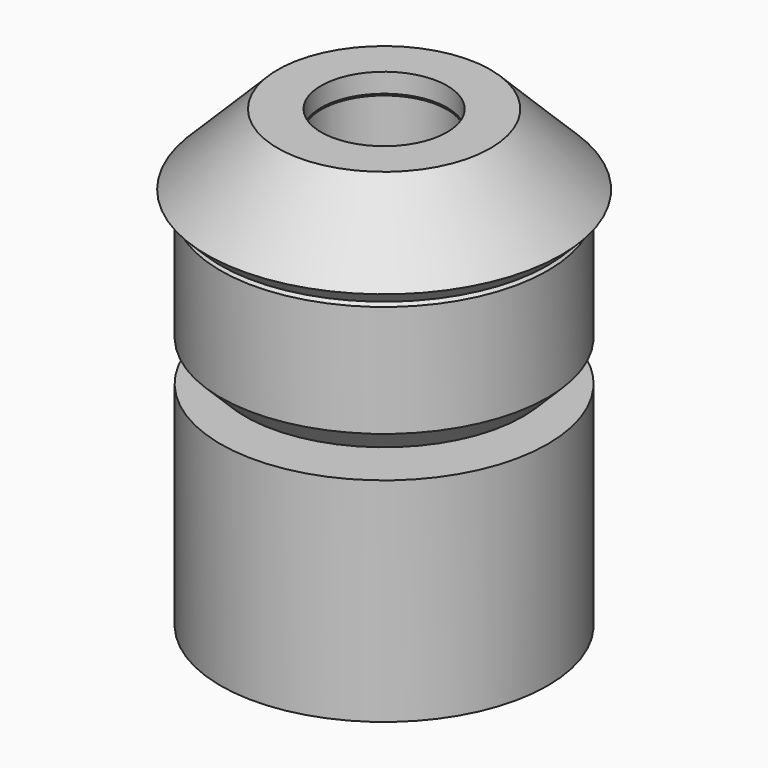
from build123d import *

# Parameters (mm, degrees)
F0_W = 7.8105
F0_H = 16.51


with BuildPart() as f1:
    # F0 (on Front) → F1 (revolve)
    with BuildSketch(Plane.XZ):
        with Locations((8.79475, -9.525)):
            Rectangle(F0_W, F0_H)
        Polygon((4.8895, 0), (10.795, 0), (12.7, 1.905), (12.7, 10.579111), (7.404111, 15.875), (4.8895, 15.875), align=None)
        Polygon((7.636321, 16.002), (12.7, 10.938321), (13.75967, 11.997991), (8.257061, 17.5006), (4.8895, 17.5006), (4.8895, 16.002), align=None)
    revolve(axis=Axis((0, 0, -6.006607), (0, 0, -1)))


solid = f1.part
